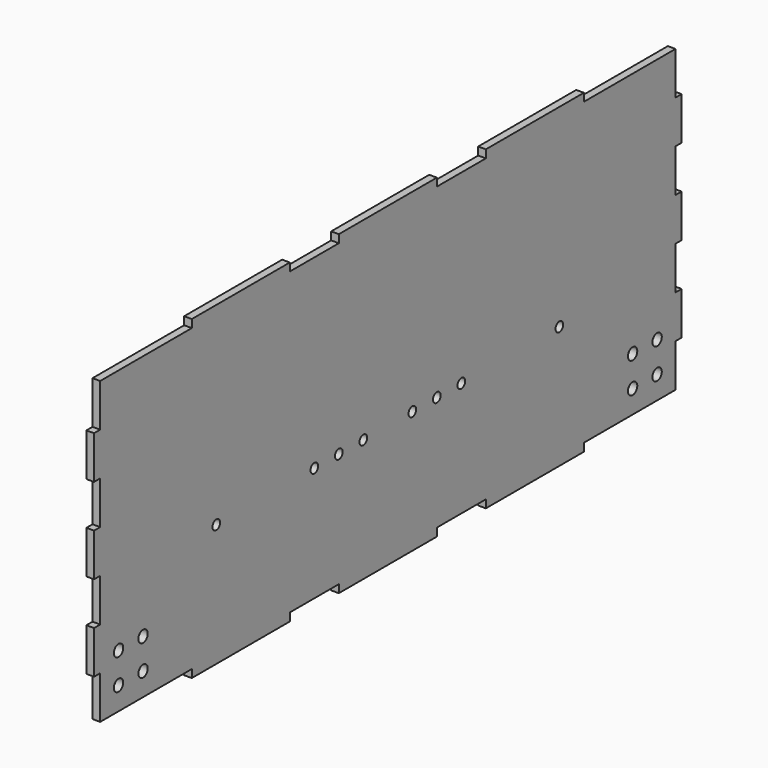
from build123d import *

# Parameters (mm, degrees)
F0_R     = 2.424029
F0_R_2   = 1.984375
F1_DEPTH = 3.175


with BuildPart() as f1:
    # F0 (on Right) → F1 (new body)
    with BuildSketch(Plane.YZ):
        Polygon((-101.6, -81.478684), (-50.8, -81.478684), (-50.8, -78.176684), (-25.4, -78.176684), (-25.4, -81.478684), (25.4, -81.478684), (25.4, -78.176684), (50.8, -78.176684), (50.8, -81.478684), (101.6, -81.478684), (101.6, -78.176684), (149.098, -78.176684), (149.098, -60.396684), (152.273, -60.396684), (152.273, -42.616684), (149.098, -42.616684), (149.098, -24.836684), (152.273, -24.836684), (152.273, -7.056684), (149.098, -7.056684), (149.098, 10.723316), (152.273, 10.723316), (152.273, 28.503316), (149.098, 28.503316), (149.098, 46.283316), (101.6, 46.283316), (101.6, 49.585316), (50.8, 49.585316), (50.8, 46.283316), (25.4, 46.283316), (25.4, 49.585316), (-25.4, 49.585316), (-25.4, 46.283316), (-50.8, 46.283316), (-50.8, 49.585316), (-101.6, 49.585316), (-101.6, 46.283316), (-149.098, 46.283316), (-149.098, 28.503316), (-152.273, 28.503316), (-152.273, 10.723316), (-149.098, 10.723316), (-149.098, -7.056684), (-152.273, -7.056684), (-152.273, -24.836684), (-149.098, -24.836684), (-149.098, -42.616684), (-152.273, -42.616684), (-152.273, -60.396684), (-149.098, -60.396684), (-149.098, -78.176684), (-101.6, -78.176684), align=None)
        with Locations((-139.573, -68.651684)):
            Circle(F0_R, mode=Mode.SUBTRACT)
        with Locations((-126.873, -68.651684)):
            Circle(F0_R, mode=Mode.SUBTRACT)
        with Locations((-139.573, -55.951684)):
            Circle(F0_R, mode=Mode.SUBTRACT)
        with Locations((-126.873, -55.951684)):
            Circle(F0_R, mode=Mode.SUBTRACT)
        with Locations((-88.9, -30.678684)):
            Circle(F0_R_2, mode=Mode.SUBTRACT)
        with Locations((-38.1, -30.678684)):
            Circle(F0_R_2, mode=Mode.SUBTRACT)
        with Locations((-25.4, -30.678684)):
            Circle(F0_R_2, mode=Mode.SUBTRACT)
        with Locations((-12.7, -30.678684)):
            Circle(F0_R_2, mode=Mode.SUBTRACT)
        with Locations((126.873, -68.651684)):
            Circle(F0_R, mode=Mode.SUBTRACT)
        with Locations((139.573, -68.651684)):
            Circle(F0_R, mode=Mode.SUBTRACT)
        with Locations((126.873, -55.951684)):
            Circle(F0_R, mode=Mode.SUBTRACT)
        with Locations((139.573, -55.951684)):
            Circle(F0_R, mode=Mode.SUBTRACT)
        with Locations((12.7, -30.678684)):
            Circle(F0_R_2, mode=Mode.SUBTRACT)
        with Locations((25.4, -30.678684)):
            Circle(F0_R_2, mode=Mode.SUBTRACT)
        with Locations((38.1, -30.678684)):
            Circle(F0_R_2, mode=Mode.SUBTRACT)
        with Locations((88.9, -30.678684)):
            Circle(F0_R_2, mode=Mode.SUBTRACT)
    extrude(amount=F1_DEPTH)


solid = f1.part
